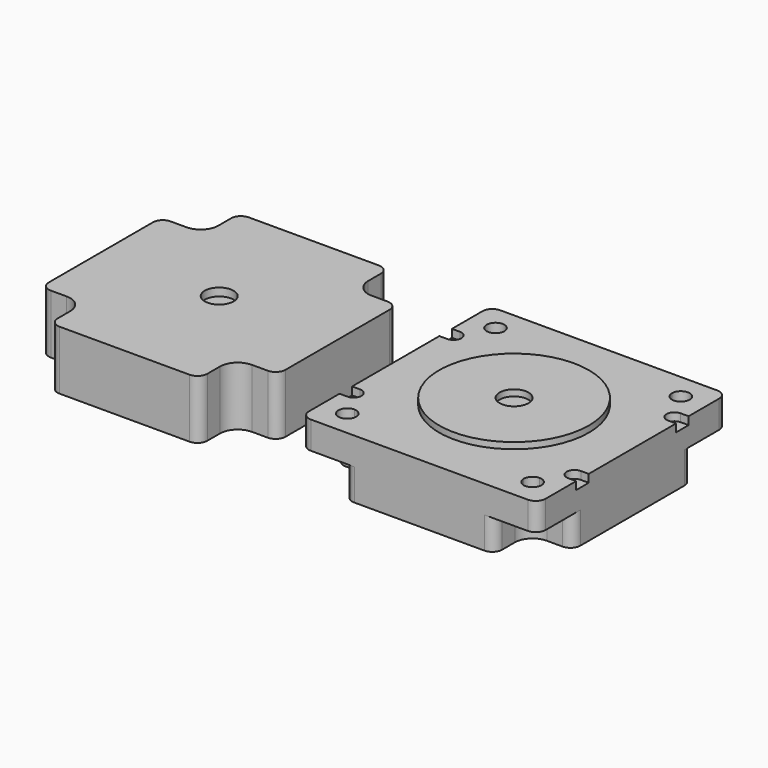
from build123d import *

# Parameters (mm, degrees)
F0_R     = 19.05
F0_R_2   = 3.675
F0_W     = 38.1
F0_H     = 6.53
F1_DEPTH = 7
F2_DEPTH = 15
F3_DEPTH = 1.6
F4_DEPTH = 2
F5_DEPTH = 15
F6_DEPTH = 2
F7_R     = 2.5
F7_2_R   = 2.5


with BuildPart() as f1:
    # F0 (on Top) → F1 (new body)
    with BuildSketch(Plane.XY):
        with BuildLine():
            ThreePointArc((23.57, 19.05), (20.373877349, 20.373877349), (19.05, 23.57))
            Line((19.05, 23.57), (-19.05, 23.57))
            ThreePointArc((-19.05, 23.57), (-20.373877349, 20.373877349), (-23.57, 19.05))
            Line((-23.57, 19.05), (-23.57, -19.05))
            ThreePointArc((-23.57, -19.05), (-20.373877349, -20.373877349), (-19.05, -23.57))
            Line((-19.05, -23.57), (19.05, -23.57))
            ThreePointArc((19.05, -23.57), (20.373877349, -20.373877349), (23.57, -19.05))
            Line((23.57, -19.05), (23.57, 19.05))
        make_face()
        Circle(F0_R, mode=Mode.SUBTRACT)
        Circle(F0_R)
        Circle(F0_R_2, mode=Mode.SUBTRACT)
        with Locations((0, 26.835)):
            Rectangle(F0_W, F0_H)
        with Locations((0, -26.835)):
            Rectangle(F0_W, F0_H)
        with BuildLine():
            Line((-23.57, 19.05), (-30.1, 19.05))
            Line((-30.1, 19.05), (-30.1, 17.875))
            Line((-30.1, 17.875), (-28.1, 17.875))
            ThreePointArc((-28.1, 17.875), (-26.1, 15.875), (-28.1, 13.875))
            Line((-28.1, 13.875), (-30.1, 13.875))
            Line((-30.1, 13.875), (-30.1, -13.875))
            Line((-30.1, -13.875), (-28.1, -13.875))
            ThreePointArc((-28.1, -13.875), (-26.1, -15.875), (-28.1, -17.875))
            Line((-28.1, -17.875), (-30.1, -17.875))
            Line((-30.1, -17.875), (-30.1, -19.05))
            Line((-30.1, -19.05), (-23.57, -19.05))
            Line((-23.57, -19.05), (-23.57, 19.05))
        make_face()
        with BuildLine():
            Line((30.1, 17.875), (30.1, 19.05))
            Line((30.1, 19.05), (23.57, 19.05))
            Line((23.57, 19.05), (23.57, -19.05))
            Line((23.57, -19.05), (30.1, -19.05))
            Line((30.1, -19.05), (30.1, -17.875))
            Line((30.1, -17.875), (28.1, -17.875))
            ThreePointArc((28.1, -17.875), (26.1, -15.875), (28.1, -13.875))
            Line((28.1, -13.875), (30.1, -13.875))
            Line((30.1, -13.875), (30.1, 13.875))
            Line((30.1, 13.875), (28.1, 13.875))
            ThreePointArc((28.1, 13.875), (26.1, 15.875), (28.1, 17.875))
            Line((28.1, 17.875), (30.1, 17.875))
        make_face()
        with BuildLine():
            Line((-19.05, 23.57), (-19.05, 30.1))
            Line((-19.05, 30.1), (-30.1, 30.1))
            Line((-30.1, 30.1), (-30.1, 19.05))
            Line((-30.1, 19.05), (-23.57, 19.05))
            Line((-23.57, 19.05), (-23.57, 21.32))
            ThreePointArc((-23.57, 21.32), (-25.1609902577, 25.1609902577), (-21.32, 23.57))
            Line((-21.32, 23.57), (-19.05, 23.57))
        make_face()
        with BuildLine():
            Line((30.1, 19.05), (30.1, 30.1))
            Line((30.1, 30.1), (19.05, 30.1))
            Line((19.05, 30.1), (19.05, 23.57))
            Line((19.05, 23.57), (21.32, 23.57))
            ThreePointArc((21.32, 23.57), (23.57, 25.82), (25.82, 23.57))
            ThreePointArc((25.82, 23.57), (25.1609902577, 21.9790097423), (23.57, 21.32))
            Line((23.57, 21.32), (23.57, 19.05))
            Line((23.57, 19.05), (30.1, 19.05))
        make_face()
        with BuildLine():
            Line((-23.57, -21.32), (-23.57, -19.05))
            Line((-23.57, -19.05), (-30.1, -19.05))
            Line((-30.1, -19.05), (-30.1, -30.1))
            Line((-30.1, -30.1), (-19.05, -30.1))
            Line((-19.05, -30.1), (-19.05, -23.57))
            Line((-19.05, -23.57), (-21.32, -23.57))
            ThreePointArc((-21.32, -23.57), (-25.1609902577, -25.1609902577), (-23.57, -21.32))
        make_face()
        with BuildLine():
            Line((30.1, -19.05), (23.57, -19.05))
            Line((23.57, -19.05), (23.57, -21.32))
            ThreePointArc((23.57, -21.32), (25.1609902577, -21.9790097423), (25.82, -23.57))
            ThreePointArc((25.82, -23.57), (23.57, -25.82), (21.32, -23.57))
            Line((21.32, -23.57), (19.05, -23.57))
            Line((19.05, -23.57), (19.05, -30.1))
            Line((19.05, -30.1), (30.1, -30.1))
            Line((30.1, -30.1), (30.1, -19.05))
        make_face()
        Circle(F0_R_2)
        with BuildLine():
            Line((-28.1, 17.875), (-30.1, 17.875))
            Line((-30.1, 17.875), (-30.1, 13.875))
            Line((-30.1, 13.875), (-28.1, 13.875))
            ThreePointArc((-28.1, 13.875), (-26.1, 15.875), (-28.1, 17.875))
        make_face()
        with BuildLine():
            Line((-28.1, -13.875), (-30.1, -13.875))
            Line((-30.1, -13.875), (-30.1, -17.875))
            Line((-30.1, -17.875), (-28.1, -17.875))
            ThreePointArc((-28.1, -17.875), (-26.1, -15.875), (-28.1, -13.875))
        make_face()
        with BuildLine():
            Line((30.1, -17.875), (30.1, -13.875))
            Line((30.1, -13.875), (28.1, -13.875))
            ThreePointArc((28.1, -13.875), (26.1, -15.875), (28.1, -17.875))
            Line((28.1, -17.875), (30.1, -17.875))
        make_face()
        with BuildLine():
            Line((30.1, 13.875), (30.1, 17.875))
            Line((30.1, 17.875), (28.1, 17.875))
            ThreePointArc((28.1, 17.875), (26.1, 15.875), (28.1, 13.875))
            Line((28.1, 13.875), (30.1, 13.875))
        make_face()
        with BuildLine():
            ThreePointArc((-23.57, 19.05), (-20.373877349, 20.373877349), (-19.05, 23.57))
            Line((-19.05, 23.57), (-21.32, 23.57))
            ThreePointArc((-21.32, 23.57), (-21.9790097423, 21.9790097423), (-23.57, 21.32))
            Line((-23.57, 21.32), (-23.57, 19.05))
        make_face()
        with BuildLine():
            ThreePointArc((-19.05, -23.57), (-20.373877349, -20.373877349), (-23.57, -19.05))
            Line((-23.57, -19.05), (-23.57, -21.32))
            ThreePointArc((-23.57, -21.32), (-21.9790097423, -21.9790097423), (-21.32, -23.57))
            Line((-21.32, -23.57), (-19.05, -23.57))
        make_face()
        with BuildLine():
            Line((23.57, -21.32), (23.57, -19.05))
            ThreePointArc((23.57, -19.05), (20.373877349, -20.373877349), (19.05, -23.57))
            Line((19.05, -23.57), (21.32, -23.57))
            ThreePointArc((21.32, -23.57), (21.9790097423, -21.9790097423), (23.57, -21.32))
        make_face()
        with BuildLine():
            Line((21.32, 23.57), (19.05, 23.57))
            ThreePointArc((19.05, 23.57), (20.373877349, 20.373877349), (23.57, 19.05))
            Line((23.57, 19.05), (23.57, 21.32))
            ThreePointArc((23.57, 21.32), (21.9790097423, 21.9790097423), (21.32, 23.57))
        make_face()
    extrude(amount=-F1_DEPTH)

    # F0 (on Top) → F2 (join)
    with BuildSketch(Plane.XY):
        with BuildLine():
            Line((-23.57, 19.05), (-30.1, 19.05))
            Line((-30.1, 19.05), (-30.1, 17.875))
            Line((-30.1, 17.875), (-28.1, 17.875))
            ThreePointArc((-28.1, 17.875), (-26.1, 15.875), (-28.1, 13.875))
            Line((-28.1, 13.875), (-30.1, 13.875))
            Line((-30.1, 13.875), (-30.1, -13.875))
            Line((-30.1, -13.875), (-28.1, -13.875))
            ThreePointArc((-28.1, -13.875), (-26.1, -15.875), (-28.1, -17.875))
            Line((-28.1, -17.875), (-30.1, -17.875))
            Line((-30.1, -17.875), (-30.1, -19.05))
            Line((-30.1, -19.05), (-23.57, -19.05))
            Line((-23.57, -19.05), (-23.57, 19.05))
        make_face()
        with BuildLine():
            Line((-28.1, 17.875), (-30.1, 17.875))
            Line((-30.1, 17.875), (-30.1, 13.875))
            Line((-30.1, 13.875), (-28.1, 13.875))
            ThreePointArc((-28.1, 13.875), (-26.1, 15.875), (-28.1, 17.875))
        make_face()
        with BuildLine():
            Line((-28.1, -13.875), (-30.1, -13.875))
            Line((-30.1, -13.875), (-30.1, -17.875))
            Line((-30.1, -17.875), (-28.1, -17.875))
            ThreePointArc((-28.1, -17.875), (-26.1, -15.875), (-28.1, -13.875))
        make_face()
        with BuildLine():
            ThreePointArc((23.57, 19.05), (20.373877349, 20.373877349), (19.05, 23.57))
            Line((19.05, 23.57), (-19.05, 23.57))
            ThreePointArc((-19.05, 23.57), (-20.373877349, 20.373877349), (-23.57, 19.05))
            Line((-23.57, 19.05), (-23.57, -19.05))
            ThreePointArc((-23.57, -19.05), (-20.373877349, -20.373877349), (-19.05, -23.57))
            Line((-19.05, -23.57), (19.05, -23.57))
            ThreePointArc((19.05, -23.57), (20.373877349, -20.373877349), (23.57, -19.05))
            Line((23.57, -19.05), (23.57, 19.05))
        make_face()
        Circle(F0_R, mode=Mode.SUBTRACT)
        with Locations((0, -26.835)):
            Rectangle(F0_W, F0_H)
        with BuildLine():
            Line((30.1, 17.875), (30.1, 19.05))
            Line((30.1, 19.05), (23.57, 19.05))
            Line((23.57, 19.05), (23.57, -19.05))
            Line((23.57, -19.05), (30.1, -19.05))
            Line((30.1, -19.05), (30.1, -17.875))
            Line((30.1, -17.875), (28.1, -17.875))
            ThreePointArc((28.1, -17.875), (26.1, -15.875), (28.1, -13.875))
            Line((28.1, -13.875), (30.1, -13.875))
            Line((30.1, -13.875), (30.1, 13.875))
            Line((30.1, 13.875), (28.1, 13.875))
            ThreePointArc((28.1, 13.875), (26.1, 15.875), (28.1, 17.875))
            Line((28.1, 17.875), (30.1, 17.875))
        make_face()
        with BuildLine():
            Line((30.1, -17.875), (30.1, -13.875))
            Line((30.1, -13.875), (28.1, -13.875))
            ThreePointArc((28.1, -13.875), (26.1, -15.875), (28.1, -17.875))
            Line((28.1, -17.875), (30.1, -17.875))
        make_face()
        with BuildLine():
            Line((30.1, 13.875), (30.1, 17.875))
            Line((30.1, 17.875), (28.1, 17.875))
            ThreePointArc((28.1, 17.875), (26.1, 15.875), (28.1, 13.875))
            Line((28.1, 13.875), (30.1, 13.875))
        make_face()
        with Locations((0, 26.835)):
            Rectangle(F0_W, F0_H)
    extrude(amount=-F2_DEPTH)

    # F0 (on Top) → F3 (join)
    with BuildSketch(Plane.XY):
        Circle(F0_R)
        Circle(F0_R_2, mode=Mode.SUBTRACT)
    extrude(amount=F3_DEPTH)

    # F0 (on Top) → F4 (cut)
    with BuildSketch(Plane.XY):
        with BuildLine():
            Line((-28.1, 17.875), (-30.1, 17.875))
            Line((-30.1, 17.875), (-30.1, 13.875))
            Line((-30.1, 13.875), (-28.1, 13.875))
            ThreePointArc((-28.1, 13.875), (-26.1, 15.875), (-28.1, 17.875))
        make_face()
        with BuildLine():
            Line((-28.1, -13.875), (-30.1, -13.875))
            Line((-30.1, -13.875), (-30.1, -17.875))
            Line((-30.1, -17.875), (-28.1, -17.875))
            ThreePointArc((-28.1, -17.875), (-26.1, -15.875), (-28.1, -13.875))
        make_face()
        with BuildLine():
            Line((30.1, 13.875), (30.1, 17.875))
            Line((30.1, 17.875), (28.1, 17.875))
            ThreePointArc((28.1, 17.875), (26.1, 15.875), (28.1, 13.875))
            Line((28.1, 13.875), (30.1, 13.875))
        make_face()
        with BuildLine():
            Line((30.1, -17.875), (30.1, -13.875))
            Line((30.1, -13.875), (28.1, -13.875))
            ThreePointArc((28.1, -13.875), (26.1, -15.875), (28.1, -17.875))
            Line((28.1, -17.875), (30.1, -17.875))
        make_face()
    extrude(amount=-F4_DEPTH, mode=Mode.SUBTRACT)

    # F7
    f7_edges = [f1.edges().sort_by_distance(p)[0] for p in [
        (-30.1, -30.1, -3.5),
        (-19.05, -30.1, -11),
        (-30.1, -19.05, -11),
        (19.05, -30.1, -11),
        (30.1, -30.1, -3.5),
        (30.1, -19.05, -11),
        (30.1, 19.05, -11),
        (30.1, 30.1, -3.5),
        (19.05, 30.1, -11),
        (-19.05, 30.1, -11),
        (-30.1, 30.1, -3.5),
        (-30.1, 19.05, -11),
    ]]
    fillet(f7_edges, radius=F7_R)


with BuildPart() as f5:
    # F0 (on Top) → F5 (new body)
    with BuildSketch(Plane.XY):
        with BuildLine():
            Line((-55.95, -30.1), (-55.95, -23.57))
            ThreePointArc((-55.95, -23.57), (-54.626122651, -20.373877349), (-51.43, -19.05))
            Line((-51.43, -19.05), (-44.9, -19.05))
            Line((-44.9, -19.05), (-44.9, 19.05))
            Line((-44.9, 19.05), (-51.43, 19.05))
            ThreePointArc((-51.43, 19.05), (-54.626122651, 20.373877349), (-55.95, 23.57))
            Line((-55.95, 23.57), (-55.95, 30.1))
            Line((-55.95, 30.1), (-94.05, 30.1))
            Line((-94.05, 30.1), (-94.05, 23.57))
            ThreePointArc((-94.05, 23.57), (-95.373877349, 20.373877349), (-98.57, 19.05))
            Line((-98.57, 19.05), (-105.1, 19.05))
            Line((-105.1, 19.05), (-105.1, -19.05))
            Line((-105.1, -19.05), (-98.57, -19.05))
            ThreePointArc((-98.57, -19.05), (-95.373877349, -20.373877349), (-94.05, -23.57))
            Line((-94.05, -23.57), (-94.05, -30.1))
            Line((-94.05, -30.1), (-55.95, -30.1))
        make_face()
        with Locations((-75, 0)):
            Circle(F0_R_2, mode=Mode.SUBTRACT)
        with Locations((-75, 0)):
            Circle(F0_R_2)
    extrude(amount=-F5_DEPTH)

    # F0 (on Top) → F6 (cut)
    with BuildSketch(Plane.XY):
        with Locations((-75, 0)):
            Circle(F0_R_2)
    extrude(amount=-F6_DEPTH, mode=Mode.SUBTRACT)

    # F7#2
    f7_2_edges = [f5.edges().sort_by_distance(p)[0] for p in [
        (-94.05, -30.1, -7.5),
        (-55.95, -30.1, -7.5),
        (-44.9, -19.05, -7.5),
        (-44.9, 19.05, -7.5),
        (-55.95, 30.1, -7.5),
        (-94.05, 30.1, -7.5),
        (-105.1, 19.05, -7.5),
        (-105.1, -19.05, -7.5),
    ]]
    fillet(f7_2_edges, radius=F7_2_R)


solid = Compound([f1.part, f5.part])
